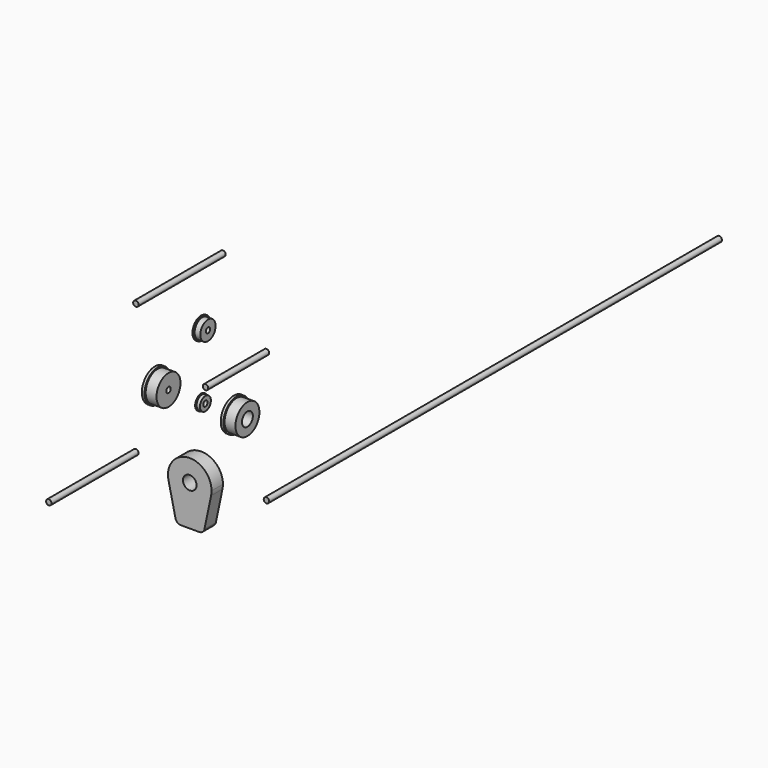
from build123d import *

# Parameters (mm, degrees)
F4_R      = 3.175
F5_DEPTH  = 127
F6_R      = 3.175
F7_DEPTH  = 88.9
F8_R      = 3.175
F9_DEPTH  = 127
F12_R     = 7.9375
F13_DEPTH = 16.637
F16_R     = 3.175
F17_DEPTH = 660.4


with BuildPart() as f1:
    # F0 (on Front) → F1 (revolve)
    with BuildSketch(Plane.XZ):
        Polygon((0, 8.763), (0, 3.175), (4.9784, 3.175), (4.9784, 7.9375), (1.016, 7.9375), (1.016, 8.763), align=None)
    revolve(axis=Axis((8.98404, 0, 0), (1, 0, 0)))


with BuildPart() as f3:
    # F2 (on Front) → F3 (revolve)
    with BuildSketch(Plane.XZ):
        Polygon((38.1, 19.05), (38.1, 7.9375), (53.975, 7.9375), (53.975, 17.4625), (41.275, 17.4625), (41.275, 19.05), align=None)
    revolve(axis=Axis((38.233172, 0, 0), (1, 0, 0)))


with BuildPart() as f5:
    # F4 (on Front) → F5 (new body)
    with BuildSketch(Plane.XZ):
        with Locations((-76.2, 76.2)):
            Circle(F4_R)
    extrude(amount=-F5_DEPTH)


with BuildPart() as f7:
    # F6 (on Front) → F7 (new body)
    with BuildSketch(Plane.XZ):
        with Locations((76.2, 76.2)):
            Circle(F6_R)
    extrude(amount=F7_DEPTH)


with BuildPart() as f9:
    # F8 (on Front) → F9 (new body)
    with BuildSketch(Plane.XZ):
        with Locations((-76.2, -76.2)):
            Circle(F8_R)
    extrude(amount=F9_DEPTH)


with BuildPart() as f11:
    # F10 (on Front) → F11 (revolve)
    with BuildSketch(Plane.XZ):
        Polygon((-50.8, 19.05), (-53.975, 19.05), (-53.975, 3.175), (-38.1, 3.175), (-38.1, 17.4625), (-50.8, 17.4625), align=None)
    revolve(axis=Axis((-46.393437, 0, 0), (1, 0, 0)))


with BuildPart() as f13:
    # F12 (on Front) → F13 (new body)
    with BuildSketch(Plane.XZ):
        with BuildLine():
            ThreePointArc((24.865197, -81.384784), (25.265945, -78.806147), (25.4, -76.2))
            ThreePointArc((25.4, -76.2), (-2.606147, -50.934055), (-24.865197, -81.384784))
            Line((-24.865197, -81.384784), (-24.707914, -82.088887))
            ThreePointArc((-24.707914, -82.088887), (0.360728, -101.597438), (24.865197, -81.384784))
        make_face()
        with Locations((0, -76.2)):
            Circle(F12_R, mode=Mode.SUBTRACT)
        with BuildLine():
            Line((-24.707914, -82.088887), (-24.865197, -81.384784))
            ThreePointArc((-24.865197, -81.384784), (-24.789055, -81.737394), (-24.707914, -82.088887))
        make_face()
        with BuildLine():
            Line((17.20195, -118.136196), (24.865197, -81.384784))
            ThreePointArc((24.865197, -81.384784), (0.360728, -101.597438), (-24.707914, -82.088887))
            Line((-24.707914, -82.088887), (-16.655645, -118.136196))
            ThreePointArc((-16.655645, -118.136196), (-14.44507, -121.767136), (-10.439345, -123.19))
            Line((-10.439345, -123.19), (10.985651, -123.19))
            ThreePointArc((10.985651, -123.19), (14.991376, -121.767136), (17.20195, -118.136196))
        make_face()
    extrude(amount=F13_DEPTH)


with BuildPart() as f15:
    # F14 (on Front) → F15 (revolve)
    with BuildSketch(Plane.XZ):
        Polygon((1.236345, 88.9), (0, 88.9), (0, 79.375), (7.9375, 79.375), (7.9375, 87.3125), (1.236345, 87.3125), align=None)
    revolve(axis=Axis((-0.252744, 0, 76.2), (1, 0, 0)))


with BuildPart() as f17:
    # F16 (on Front) → F17 (new body)
    with BuildSketch(Plane.XZ):
        with Locations((76.2, -76.2)):
            Circle(F16_R)
    extrude(amount=-F17_DEPTH)


solid = Compound([f1.part, f3.part, f5.part, f7.part, f9.part, f11.part, f13.part, f15.part, f17.part])
